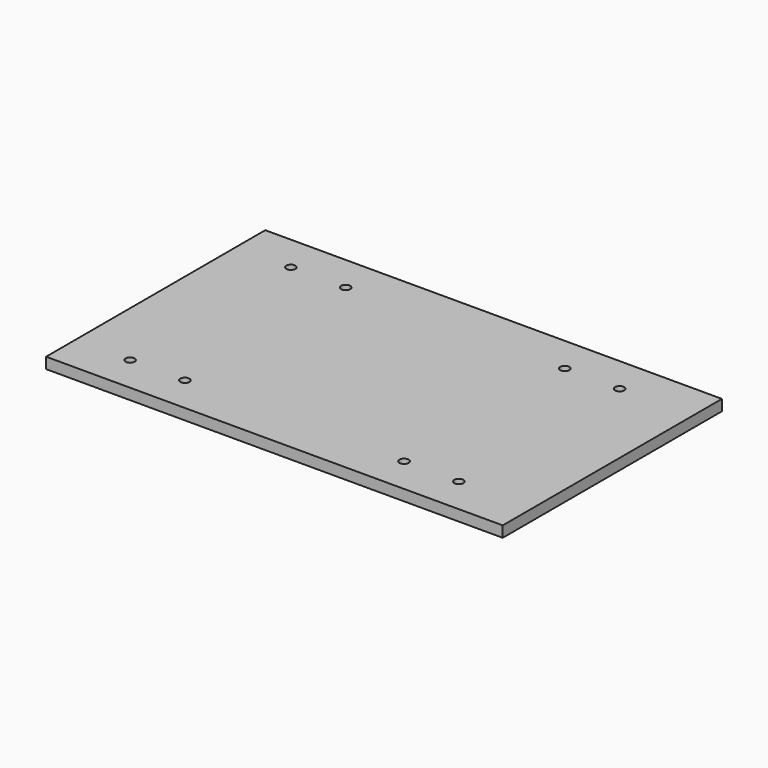
from build123d import *

# Parameters (mm, degrees)
F0_W     = 250
F0_H     = 150
F0_R     = 2.5
F1_DEPTH = 6


with BuildPart() as f1:
    # F0 (on Top) → F1 (new body)
    with BuildSketch(Plane.XY):
        with Locations((-60.244922, 6.097131)):
            Rectangle(F0_W, F0_H)
        with Locations((-155.244922, -48.902869)):
            Circle(F0_R, mode=Mode.SUBTRACT)
        with Locations((-125.244922, -48.902869)):
            Circle(F0_R, mode=Mode.SUBTRACT)
        with Locations((-5.244922, -48.902869)):
            Circle(F0_R, mode=Mode.SUBTRACT)
        with Locations((24.755078, -48.902869)):
            Circle(F0_R, mode=Mode.SUBTRACT)
        with Locations((-155.244922, 61.097131)):
            Circle(F0_R, mode=Mode.SUBTRACT)
        with Locations((-125.244922, 61.097131)):
            Circle(F0_R, mode=Mode.SUBTRACT)
        with Locations((-5.244922, 61.097131)):
            Circle(F0_R, mode=Mode.SUBTRACT)
        with Locations((24.755078, 61.097131)):
            Circle(F0_R, mode=Mode.SUBTRACT)
    extrude(amount=F1_DEPTH)


solid = f1.part
